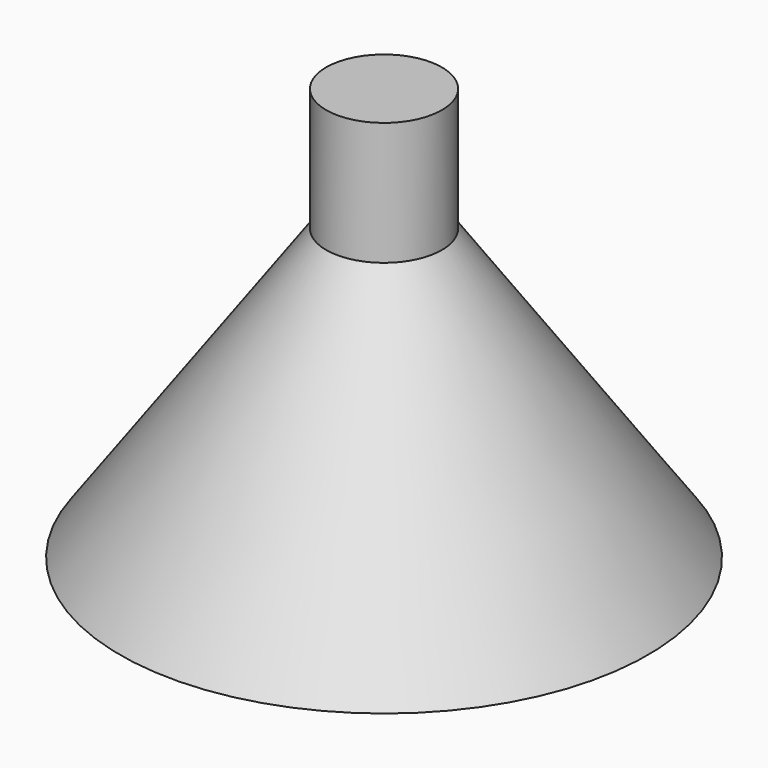
from build123d import *


with BuildPart() as f1:
    # F0 (on Front) → F1 (revolve)
    with BuildSketch(Plane.XZ):
        Polygon((-10, 71.278572), (-10, 50), (-10, 48), (-8.242208, 50), (-8.242208, 69.278572), (0, 69.278572), (0, 71.278572), align=None)
        Polygon((-10, 48), (-10, 50), (-45.587599, 0), (-43.587599, 0), align=None)
    revolve(axis=Axis((0, 0, 70.278572), (0, 0, -1)))


solid = f1.part
